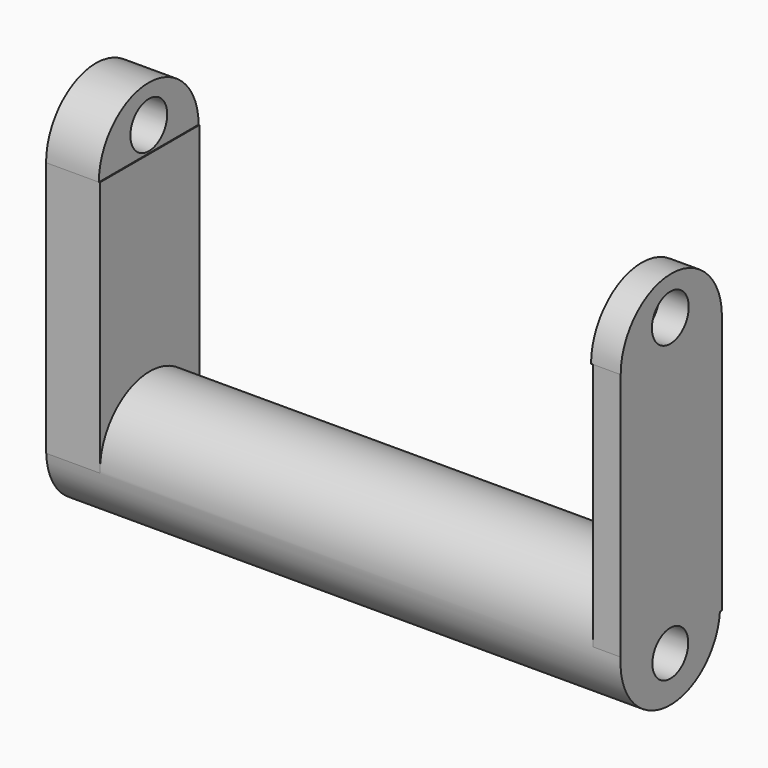
from build123d import *

# Parameters (mm, degrees)
F0_R       = 17.0692141661
F1_DEPTH   = 74.676
F3_DEPTH   = 7.62
F1_FACE1_R = 17.0692141661
F5_DEPTH   = 8.128
F7_DEPTH   = 14.732
F9_DEPTH   = 14.478
F10_R      = 6.1442753349
F11_DEPTH  = 157.481
F12_R      = 6.3140721671
F13_DEPTH  = 157.481


with BuildPart() as f1:
    # F0 (on Right) → F1 (new body, symmetric)
    with BuildSketch(Plane.YZ):
        with Locations((0, -44.9254028499)):
            Circle(F0_R)
    extrude(amount=F1_DEPTH, both=True)

    # F2 (on face) → F3 (join)
    with BuildSketch(Plane.YZ.offset(74.676)):
        with BuildLine():
            ThreePointArc((17.0692141661, -44.9254028499), (17.054567773, -45.6323613518), (17.0106537288, -46.3381066294))
            Line((17.0106537288, -46.3381066294), (17.6849197596, -46.3381066294))
            Line((17.6849197596, -46.3381066294), (17.6849197596, 24.6733147651))
            Line((17.6849197596, 24.6733147651), (-17.0106537288, 24.6733147651))
            Line((-17.0106537288, 24.6733147651), (-17.0106537288, -43.5126990704))
            ThreePointArc((-17.0106537288, -43.5126990704), (0.7069585019, -27.8708350769), (17.0692141661, -44.9254028499))
        make_face()
    extrude(amount=-F3_DEPTH)

    # F4 (on face) + F1_face1 (on face) → F5 (join)
    with BuildSketch(Plane.YZ.offset(74.676)):
        with BuildLine():
            Line((-17.0106537288, 24.6733147651), (17.6849197596, 24.6733147651))
            ThreePointArc((17.6849197596, 24.6733147651), (0.3371330154, 42.0211015093), (-17.0106537288, 24.6733147651))
        make_face()
    with BuildSketch(Plane(origin=(-74.676, 0, -44.9254028499), x_dir=(0, 1, 0), z_dir=(-1, 0, 0))):
        Circle(F1_FACE1_R)
    extrude(amount=-F5_DEPTH, dir=(1, 0, 0))

    # F6 (on face) → F7 (join)
    with BuildSketch(Plane(origin=(-82.804, 0, 0), x_dir=(0, -1, 0), z_dir=(-1, 0, 0))):
        with BuildLine():
            ThreePointArc((17.0692141661, -44.9254028499), (17.0670540007, -45.1969539267), (17.060574051, -45.4684362721))
            Line((17.060574051, -45.4684362721), (17.1144399792, -45.4684362721))
            Line((17.1144399792, -45.4684362721), (17.1144399792, 24.6733147651))
            Line((17.1144399792, 24.6733147651), (-17.060574051, 24.6733147651))
            Line((-17.060574051, 24.6733147651), (-17.060574051, -44.3823694277))
            ThreePointArc((-17.060574051, -44.3823694277), (0.2715510768, -27.8583488493), (17.0692141661, -44.9254028499))
        make_face()
    extrude(amount=-F7_DEPTH)

    # F8 (on face) → F9 (join)
    with BuildSketch(Plane(origin=(-82.804, 0, 0), x_dir=(0, -1, 0), z_dir=(-1, 0, 0))):
        with BuildLine():
            Line((-17.060574051, 24.6733147651), (17.1144399792, 24.6733147651))
            ThreePointArc((17.1144399792, 24.6733147651), (0.0269329641, 41.7608217802), (-17.060574051, 24.6733147651))
        make_face()
    extrude(amount=-F9_DEPTH)

    # F10 (on face) → F11 (cut, through all)
    with BuildSketch(Plane.YZ.offset(74.676)):
        with Locations((0, -49.4892522693)):
            Circle(F10_R)
    extrude(amount=-F11_DEPTH, mode=Mode.SUBTRACT)

    # F12 (on face) → F13 (cut, through all)
    with BuildSketch(Plane.YZ.offset(74.676)):
        with Locations((0, 31.5190926194)):
            Circle(F12_R)
    extrude(amount=-F13_DEPTH, mode=Mode.SUBTRACT)


solid = f1.part
